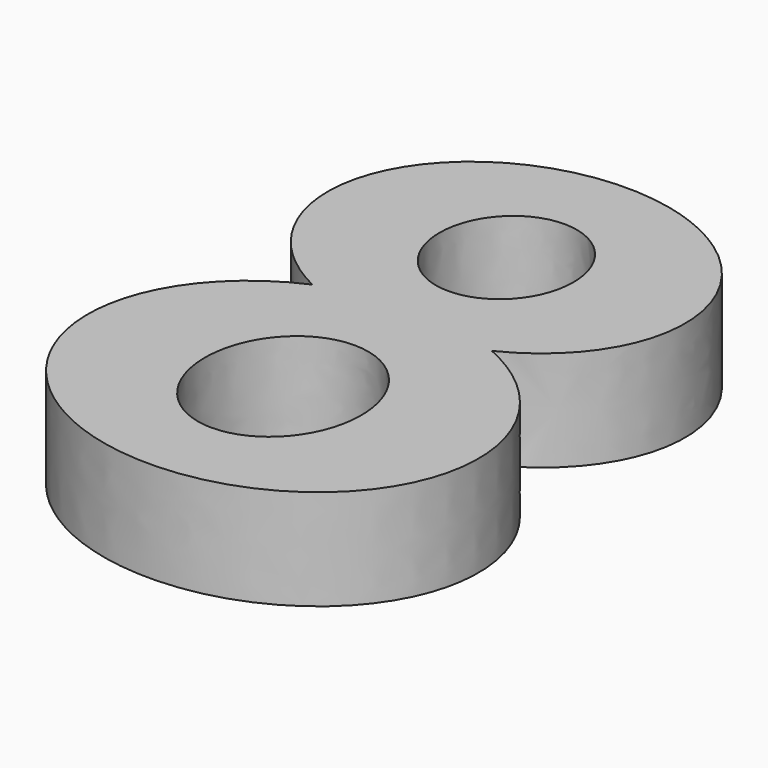
from build123d import *

# Parameters (mm, degrees)
F1_DEPTH = 9


with BuildPart() as f1:
    # F0 (on Top) → F1 (new body)
    with BuildSketch(Plane.XY):
        with BuildLine():
            add(Edge.make_bspline(
                [(8.0346569821, 13.325588656), (59.4152844348, 38.5), (0, 38.5), (-59.4152844348, 38.5), (-8.0346569821, 13.325588656)],
                knots=[2.0968980658, 2.0968980658, 2.0968980658, 4.7123889804, 4.7123889804, 7.327879895, 7.327879895, 7.327879895], degree=2, weights=[1, 0.2600276806, 1, 0.2600276806, 1]))
            add(Edge.make_bspline(
                [(-8.0346569821, 13.325588656), (-27.1577009576, 4.8543994498), (-13.5788504788, -9.4622057103), (0, -23.7788108703), (13.5788504788, -9.4622057103), (27.1577009576, 4.8543994498), (8.0346569821, 13.325588656)],
                knots=[2.0478043632, 2.0478043632, 2.0478043632, 3.824194108, 3.824194108, 5.6005838528, 5.6005838528, 7.3769735975, 7.3769735975, 7.3769735975], degree=2, weights=[1, 0.630813714, 1, 0.630813714, 1, 0.630813714, 1]))
        make_face()
        with BuildLine():
            add(Edge.make_bspline(
                [(0, -8), (12.124355653, -8), (6.0621778265, 4), (0, 16), (-6.0621778265, 4), (-12.124355653, -8), (0, -8)],
                knots=[0, 0, 0, 2.0943951024, 2.0943951024, 4.1887902048, 4.1887902048, 6.2831853072, 6.2831853072, 6.2831853072], degree=2, weights=[1, 0.5, 1, 0.5, 1, 0.5, 1]))
        make_face(mode=Mode.SUBTRACT)
        with BuildLine():
            add(Edge.make_bspline(
                [(0, 18.5), (10.3923048454, 18.5), (5.1961524227, 28.25), (0, 38), (-5.1961524227, 28.25), (-10.3923048454, 18.5), (0, 18.5)],
                knots=[0, 0, 0, 2.0943951024, 2.0943951024, 4.1887902048, 4.1887902048, 6.2831853072, 6.2831853072, 6.2831853072], degree=2, weights=[1, 0.5, 1, 0.5, 1, 0.5, 1]))
        make_face(mode=Mode.SUBTRACT)
    extrude(amount=F1_DEPTH)


solid = f1.part
